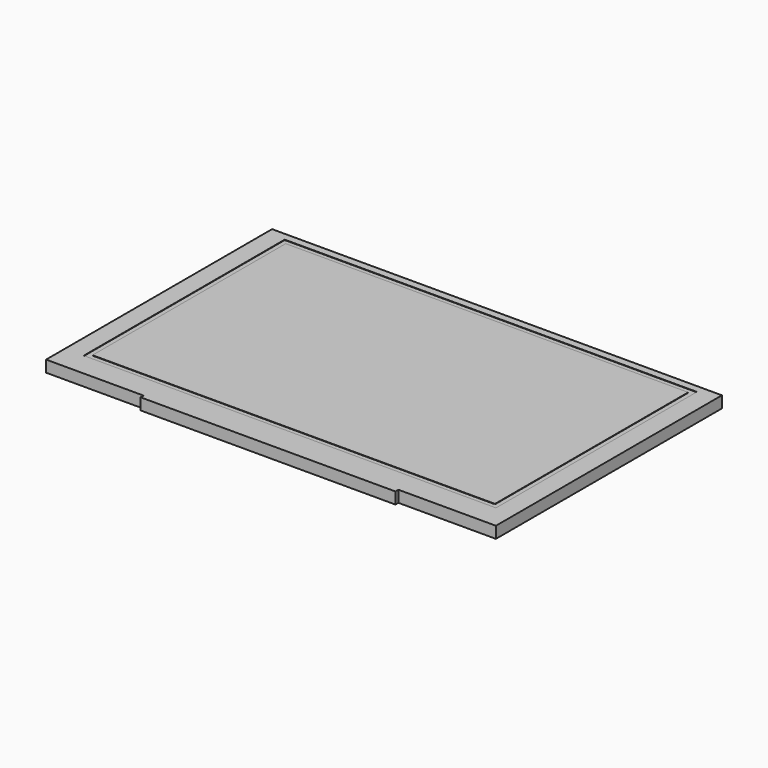
from build123d import *

# Parameters (mm, degrees)
F0_W     = 120.7
F0_H     = 75.8
F1_DEPTH = 3.1
F2_W     = 110.6
F2_H     = 67.4
F2_W_2   = 108
F2_H_2   = 64.8
F3_DEPTH = 0.1
F4_W     = 68.38
F4_H     = 3.1
F5_DEPTH = 1


with BuildPart() as f1:
    # F0 (on Top) → F1 (new body)
    with BuildSketch(Plane.XY):
        Rectangle(F0_W, F0_H)
    extrude(amount=F1_DEPTH)

    # F2 (on face) → F3 (cut)
    with BuildSketch(Plane.XY.offset(3.1)):
        with Locations((0, 2.13)):
            Rectangle(F2_W, F2_H)
        with Locations((0, 2.13)):
            Rectangle(F2_W_2, F2_H_2, mode=Mode.SUBTRACT)
    extrude(amount=-F3_DEPTH, mode=Mode.SUBTRACT)

    # F4 (on face) → F5 (join)
    with BuildSketch(Plane.XZ.offset(37.9)):
        with Locations((0, 1.55)):
            Rectangle(F4_W, F4_H)
    extrude(amount=F5_DEPTH)


solid = f1.part
